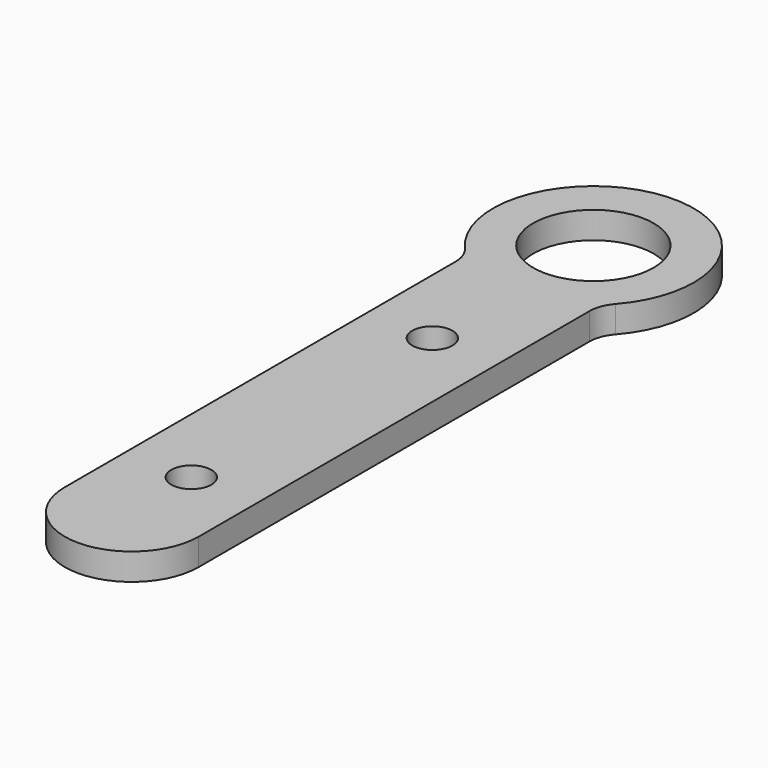
from build123d import *

# Parameters (mm, degrees)
F1_DEPTH = 4
F2_R     = 9
F2_R_2   = 3
F3_DEPTH = 4.001


with BuildPart() as f1:
    # F0 (on Top) → F1 (new body)
    with BuildSketch(Plane.XY):
        with BuildLine():
            ThreePointArc((-11.204137, 14.325526), (-10.277066, 12.786104), (-9.954137, 11.018337))
            Line((-9.954137, 11.018337), (-9.954137, -61.933247))
            ThreePointArc((-9.954137, -61.933247), (0.045863, -71.933247), (10.045863, -61.933247))
            Line((10.045863, -61.933247), (10.045863, 11.018337))
            ThreePointArc((10.045863, 11.018337), (10.368791, 12.786104), (11.295863, 14.325526))
            ThreePointArc((11.295863, 14.325526), (0.045863, 39.247093), (-11.204137, 14.325526))
        make_face()
    extrude(amount=F1_DEPTH)

    # F2 (on face) → F3 (cut, through all)
    with BuildSketch(Plane.XY.offset(4)):
        with Locations((0.045863, 24.247093)):
            Circle(F2_R)
        with Locations((0, -5.752907)):
            Circle(F2_R_2)
        with Locations((0, -50.752907)):
            Circle(F2_R_2)
    extrude(amount=-F3_DEPTH, mode=Mode.SUBTRACT)


solid = f1.part
